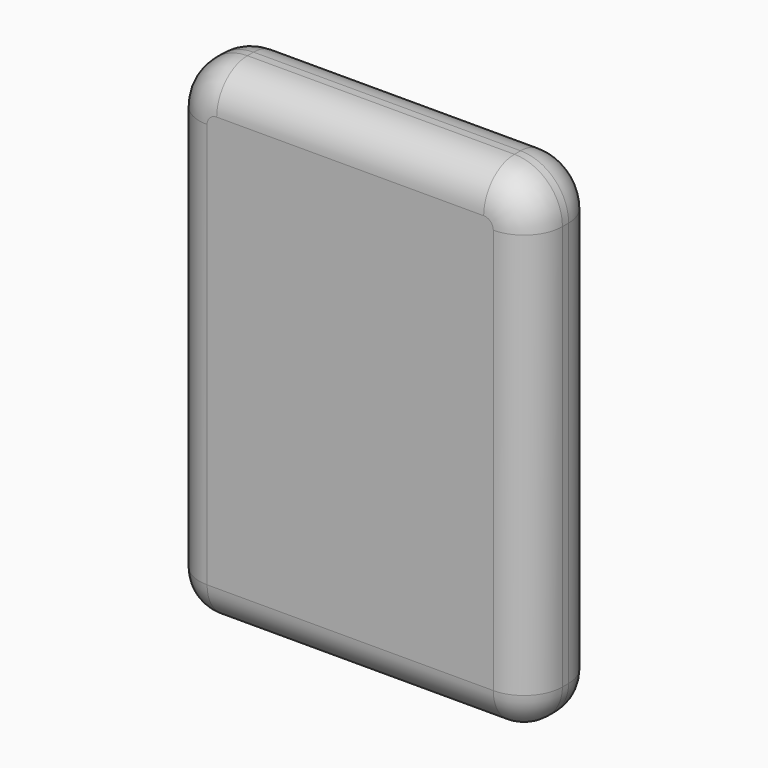
from build123d import *

# Parameters (mm, degrees)
F1_DEPTH = 5.588
F2_R     = 5.08
F3_R     = 5.08


with BuildPart() as f1:
    # F0 (on Front) → F1 (new body, symmetric)
    with BuildSketch(Plane.XZ):
        with BuildLine():
            Line((-24.003, -32.512), (24.003, -32.512))
            Line((24.003, -32.512), (24.003, 26.162))
            ThreePointArc((24.003, 26.162), (22.1431280605, 30.6521280605), (17.653, 32.512))
            Line((17.653, 32.512), (-17.653, 32.512))
            ThreePointArc((-17.653, 32.512), (-22.1431280605, 30.6521280605), (-24.003, 26.162))
            Line((-24.003, 26.162), (-24.003, -32.512))
        make_face()
    extrude(amount=F1_DEPTH, both=True)

    # F2
    f2_edges = [f1.edges().sort_by_distance(p)[0] for p in [
        (-22.143128, 5.588, 30.652128),
        (-24.003, 0, 26.162),
        (-22.143128, -5.588, 30.652128),
        (-17.653, 0, 32.512),
    ]]
    fillet(f2_edges, radius=F2_R)

    # F3
    f3_edges = [f1.edges().sort_by_distance(p)[0] for p in [
        (-22.515102, -4.100102, -32.512),
        (22.515102, -4.100102, -32.512),
    ]]
    fillet(f3_edges, radius=F3_R)


solid = f1.part
